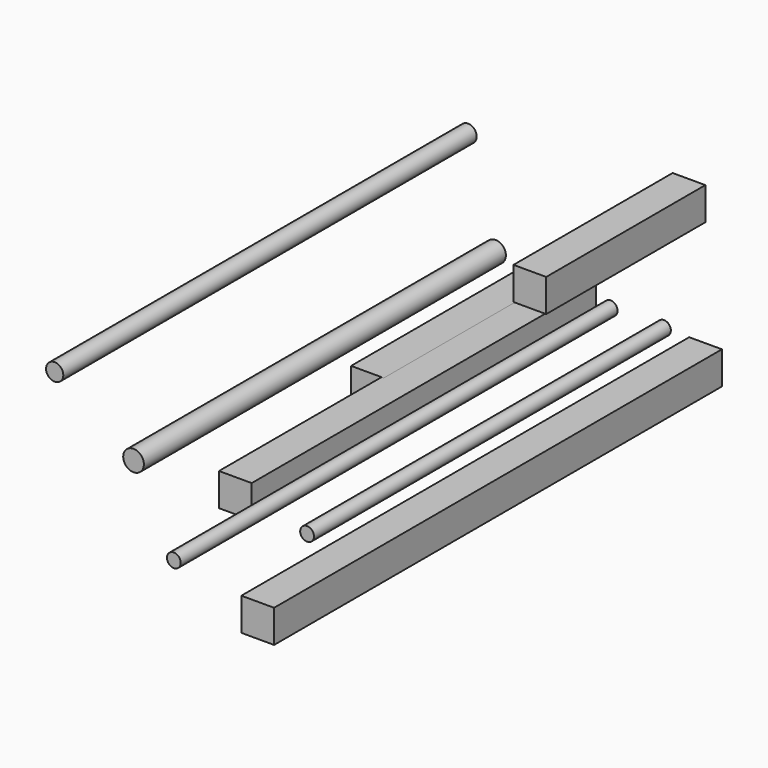
from build123d import *

# Parameters (mm, degrees)
F0_W      = 19
F0_H      = 19
F1_DEPTH  = 250
F2_W      = 19
F2_H      = 19
F3_DEPTH  = 132
F4_R      = 6
F5_DEPTH  = 262.7
F6_R      = 4
F7_DEPTH  = 259
F8_W      = 19
F8_H      = 19
F9_DEPTH  = 325
F10_R     = 4
F11_DEPTH = 317
F12_R     = 5
F13_DEPTH = 300
F14_W     = 19
F14_H     = 19
F15_DEPTH = 115.5


with BuildPart() as f1:
    # F0 (on Front) → F1 (new body)
    with BuildSketch(Plane.XZ):
        Rectangle(F0_W, F0_H)
    extrude(amount=F1_DEPTH)


with BuildPart() as f3:
    # F2 (on Front) → F3 (new body)
    with BuildSketch(Plane.XZ):
        with Locations((-17.700949, 0)):
            Rectangle(F2_W, F2_H)
    extrude(amount=F3_DEPTH)


with BuildPart() as f5:
    # F4 (on Front) → F5 (new body)
    with BuildSketch(Plane.XZ):
        with Locations((-48.935786, 7.180173)):
            Circle(F4_R)
    extrude(amount=F5_DEPTH)


with BuildPart() as f7:
    # F6 (on Front) → F7 (new body)
    with BuildSketch(Plane.XZ):
        with Locations((48.850505, 0)):
            Circle(F6_R)
    extrude(amount=F7_DEPTH)


with BuildPart() as f9:
    # F8 (on Front) → F9 (new body)
    with BuildSketch(Plane.XZ):
        with Locations((72.998668, -9.5)):
            Rectangle(F8_W, F8_H)
    extrude(amount=F9_DEPTH)


with BuildPart() as f11:
    # F10 (on Front) → F11 (new body)
    with BuildSketch(Plane.XZ):
        with Locations((17.886855, 0)):
            Circle(F10_R)
    extrude(amount=F11_DEPTH)


with BuildPart() as f13:
    # F12 (on Front) → F13 (new body)
    with BuildSketch(Plane.XZ):
        with Locations((-64.885274, 62.447388)):
            Circle(F12_R)
    extrude(amount=F13_DEPTH)


with BuildPart() as f15:
    # F14 (on Front) → F15 (new body)
    with BuildSketch(Plane.XZ):
        with Locations((63.379956, 71.298807)):
            Rectangle(F14_W, F14_H)
    extrude(amount=F15_DEPTH)


solid = Compound([f1.part, f3.part, f5.part, f7.part, f9.part, f11.part, f13.part, f15.part])
